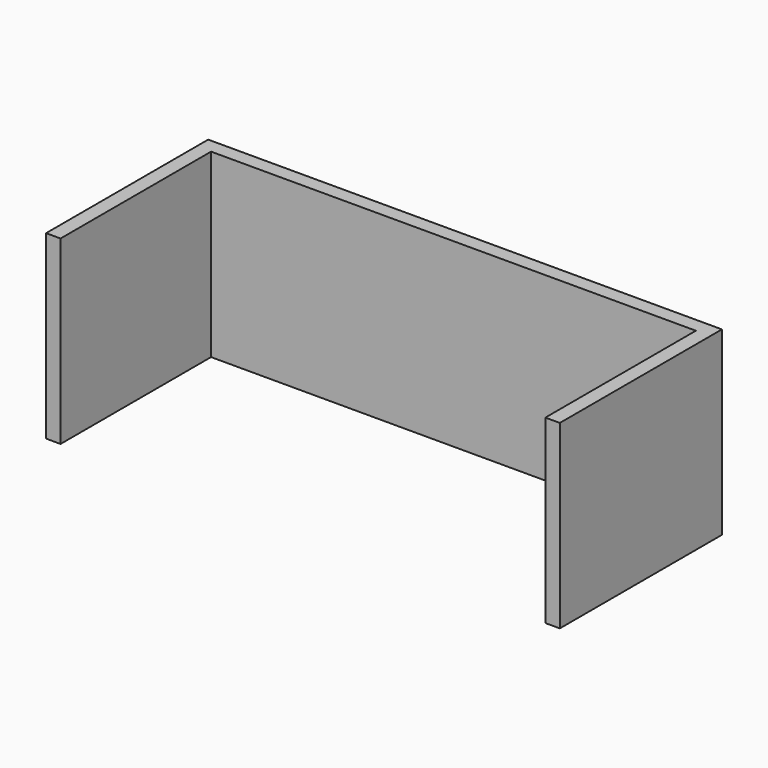
from build123d import *

# Parameters (mm, degrees)
F0_W     = 20
F0_H     = 20
F0_W_2   = 670
F0_H_2   = 260
F1_DEPTH = 250


with BuildPart() as f1:
    # F0 (on Top) → F1 (new body)
    with BuildSketch(Plane.XY):
        with Locations((345, 140)):
            Rectangle(F0_W, F0_H)
        with Locations((-345, 140)):
            Rectangle(F0_W, F0_H)
        with Locations((0, 140)):
            Rectangle(F0_W_2, F0_H)
        with Locations((345, 0)):
            Rectangle(F0_W, F0_H_2)
        with Locations((-345, 0)):
            Rectangle(F0_W, F0_H_2)
    extrude(amount=F1_DEPTH)


solid = f1.part
